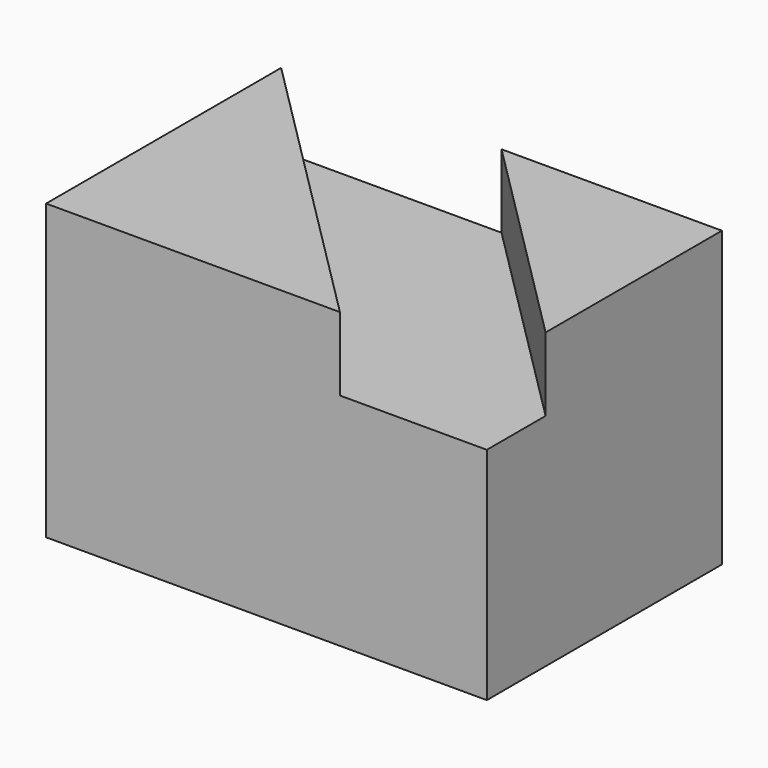
from build123d import *

# Parameters (mm, degrees)
F0_W     = 25.4
F0_H     = 25.4
F1_DEPTH = 38.1
F3_DEPTH = 6.35


with BuildPart() as f1:
    # F0 (on Right) → F1 (new body)
    with BuildSketch(Plane.YZ):
        with Locations((-12.7, 12.7)):
            Rectangle(F0_W, F0_H)
    extrude(amount=F1_DEPTH)

    # F2 (on face) → F3 (cut)
    with BuildSketch(Plane.XY.offset(25.4)):
        Polygon((19.05, 0), (0, 0), (25.4, -25.4), (38.1, -25.4), (38.1, -19.05), align=None)
    extrude(amount=-F3_DEPTH, mode=Mode.SUBTRACT)


solid = f1.part
